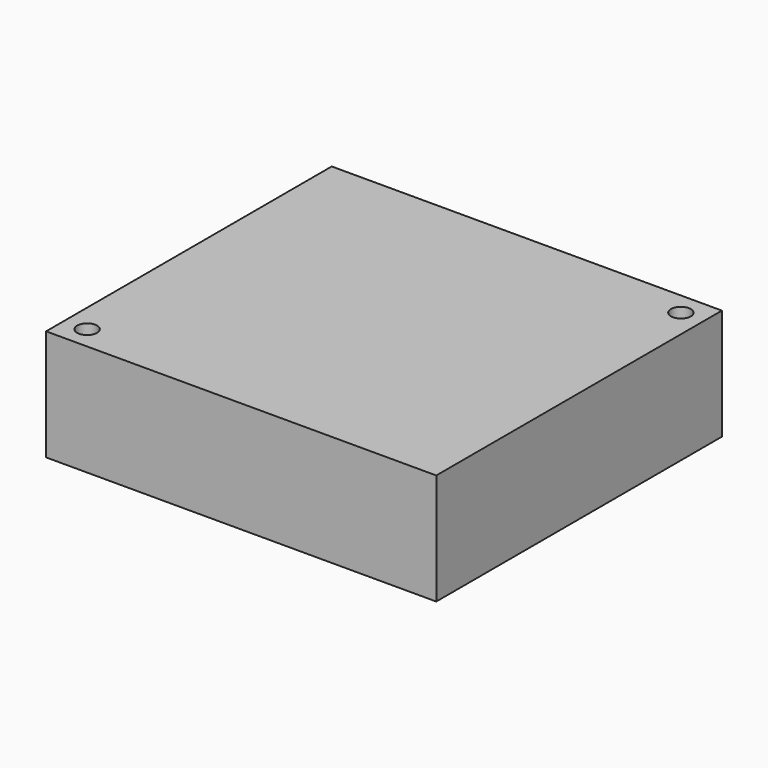
from build123d import *

# Parameters (mm, degrees)
CYLINDER046_R     = 1.2
CYLINDER046_DEPTH = 20
CYLINDER045_R     = 1.2
CYLINDER045_DEPTH = 20
BOX043_W          = 47.1
BOX043_H          = 43.1
BOX043_DEPTH      = 13.4


with BuildPart() as cylinder046:
    # Cylinder046 → Cylinder046 (new body)
    with BuildSketch(Plane(origin=(44.35, 40.35, 0), x_dir=(1, 0, 0), z_dir=(0, 0, 1))):
        Circle(CYLINDER046_R)
    extrude(amount=CYLINDER046_DEPTH)


with BuildPart() as fusion030:
    # Cylinder045 → Cylinder045 (new body)
    with BuildSketch(Plane(origin=(2.75, 2.75, 0), x_dir=(1, 0, 0), z_dir=(0, 0, 1))):
        Circle(CYLINDER045_R)
    extrude(amount=CYLINDER045_DEPTH)

    # Fusion030: union Cylinder046
    add(cylinder046.part)


with BuildPart() as ips7100s:
    # Box043 → Box043 (new body)
    with BuildSketch(Plane.XY):
        with Locations((23.55, 21.55)):
            Rectangle(BOX043_W, BOX043_H)
    extrude(amount=BOX043_DEPTH)

    # Cut012: cut Fusion030
    add(fusion030.part, mode=Mode.SUBTRACT)


with BuildPart() as ips7100s_1:
    # Cut012 placement: moved
    add(ips7100s.part.moved(Location((46.5, 13, 4))))


solid = ips7100s_1.part
